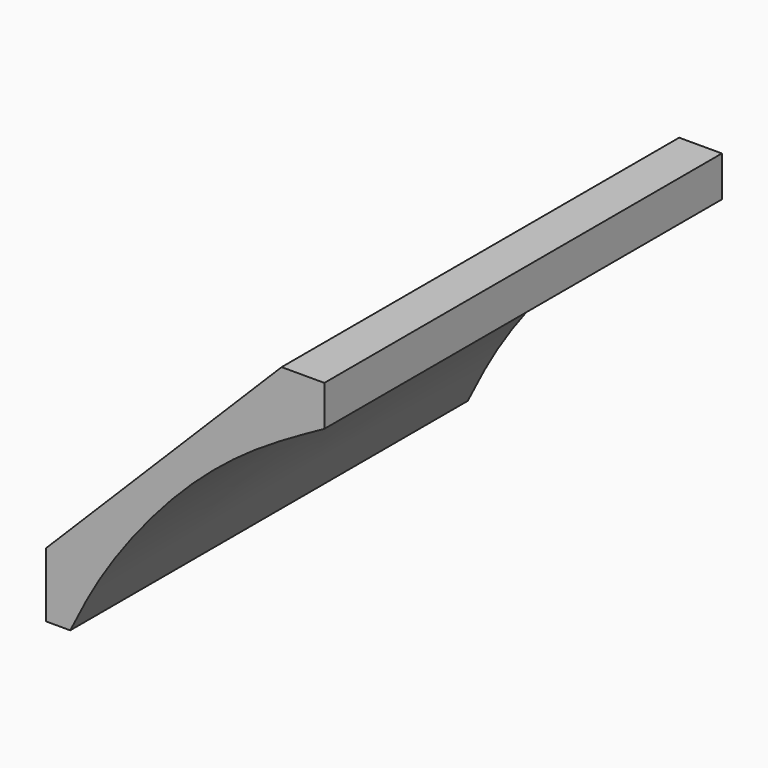
from build123d import *

# Parameters (mm, degrees)
F1_DEPTH = 152.4


with BuildPart() as f1:
    # F0 (on Front) → F1 (new body)
    with BuildSketch(Plane.XZ):
        with BuildLine():
            Line((-42.6630750299, -46.0588522255), (-35.2579802275, -46.0588522255))
            add(Edge.make_bspline(
                [(-35.2579802275, -46.0588522255), (-33.1193489784, -41.7755046879), (-28.5984115831, -32.7207664913), (-18.6989248244, -17.3894344615), (-2.0319073966, 2.7294791603), (19.242819298, 20.7165567502), (34.9394059974, 29.4097744277), (42.6923781633, 33.7035916746)],
                knots=[0, 0, 0, 0, 0.161494404, 0.3413894239, 0.5576033554, 0.7814882345, 1, 1, 1, 1], degree=3))
            Line((42.6923781633, 33.7035916746), (42.6797233522, 46.1011044681))
            Line((42.6797233522, 46.1011044681), (29.5711290091, 46.1011044681))
            Line((29.5711290091, 46.1011044681), (-42.6630750299, -26.2602902949))
            Line((-42.6630750299, -26.2602902949), (-42.6630750299, -46.0588522255))
        make_face()
    extrude(amount=F1_DEPTH)


solid = f1.part
